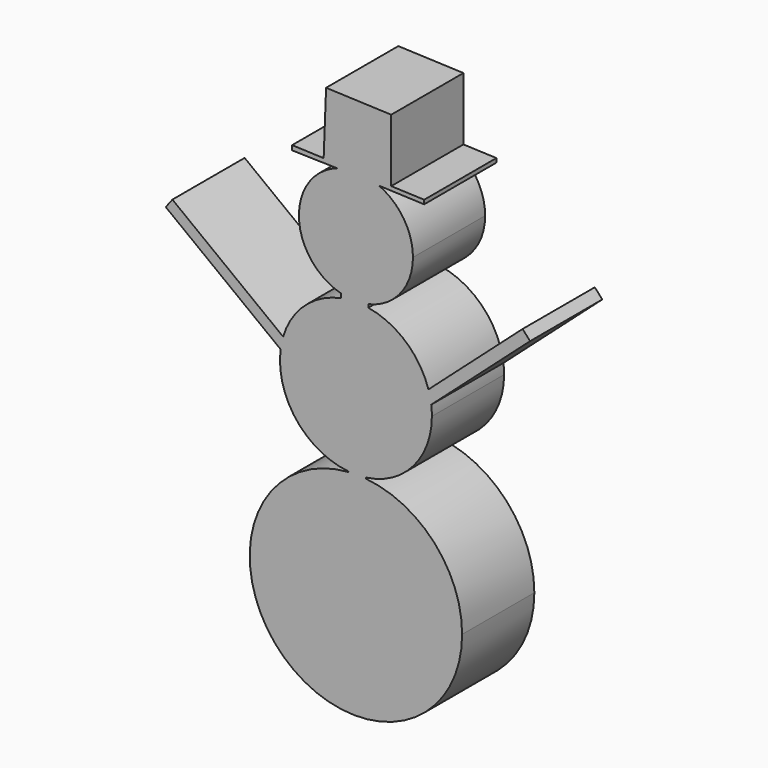
from build123d import *

# Parameters (mm, degrees)
F1_DEPTH = 25.4


with BuildPart() as f1:
    # F0 (on Front) → F1 (new body)
    with BuildSketch(Plane.XZ):
        with BuildLine():
            ThreePointArc((20.4049786892, 6.3504867092), (20.8678544717, 4.6070040701), (21.1820442154, 2.8306959584))
            Line((21.1820442154, 2.8306959584), (48.9944145362, 27.6060388008))
            Line((48.9944145362, 27.6060388008), (46.9024144113, 29.9544818699))
            Line((46.9024144113, 29.9544818699), (20.4049786892, 6.3504867092))
        make_face()
        with BuildLine():
            ThreePointArc((-21.1910162126, 2.7627284755), (-20.9013414742, 4.4526128656), (-20.4771295901, 6.1138368071))
            Line((-20.4771295901, 6.1138368071), (-51.6320727766, 29.9544818699))
            Line((-51.6320727766, 29.9544818699), (-53.5130294584, 27.4964486077))
            Line((-53.5130294584, 27.4964486077), (-21.1910162126, 2.7627284755))
        make_face()
        with BuildLine():
            ThreePointArc((-4.2163397384, 20.950282002), (-0.3644683786, 21.3672412715), (3.4993825041, 21.0818917283))
            Line((3.4993825041, 21.0818917283), (3.4993825041, 21.9821314982))
            ThreePointArc((3.4993825041, 21.9821314982), (-0.3693197629, 21.6001123859), (-4.2163397384, 22.1597847365))
            Line((-4.2163397384, 22.1597847365), (-4.2163397384, 20.950282002))
        make_face()
        with BuildLine():
            ThreePointArc((-2.1167327844, -21.4303093495), (-1.3655209552, -21.3864617153), (-0.6134432394, -21.3615431124))
            ThreePointArc((-0.6134432394, -21.3615431124), (-1.3659366362, -21.3266512575), (-2.1167327844, -21.2652599108))
            Line((-2.1167327844, -21.2652599108), (-2.1167327844, -21.4303093495))
        make_face()
        with BuildLine():
            Line((2.8663278709, -21.4930317571), (2.8663278709, -21.1772519768))
            ThreePointArc((2.8663278709, -21.1772519768), (1.7423238937, -21.2992052481), (0.6134432394, -21.3615431124))
            ThreePointArc((0.6134432394, -21.3615431124), (1.7411272386, -21.4060128256), (2.8663278709, -21.4930317571))
        make_face()
        with BuildLine():
            ThreePointArc((-0.6134432394, -21.3615431124), (-0.3771394581, -21.3576259208), (-0.140812087, -21.3555777168))
            Line((-0.140812087, -21.3555777168), (-2.1167327844, -21.2652599108))
            ThreePointArc((-2.1167327844, -21.2652599108), (-1.3659366362, -21.3266512575), (-0.6134432394, -21.3615431124))
        make_face()
        with BuildLine():
            ThreePointArc((29.8826873875, -51.2379333377), (22.1204496475, -31.1466239505), (2.8663278709, -21.4930317571))
            Line((2.8663278709, -21.4930317571), (0.1679222298, -21.3696897235))
            ThreePointArc((0.1679222298, -21.3696897235), (-0.2227977431, -21.36918805), (-0.6134432394, -21.3615431124))
            ThreePointArc((-0.6134432394, -21.3615431124), (-1.3655209552, -21.3864617153), (-2.1167327844, -21.4303093495))
            ThreePointArc((-2.1167327844, -21.4303093495), (-20.3681287975, -73.1037590662), (29.8826873875, -51.2379333377))
        make_face()
        with BuildLine():
            ThreePointArc((2.8663278709, -21.4930317571), (1.7411272386, -21.4060128256), (0.6134432394, -21.3615431124))
            ThreePointArc((0.6134432394, -21.3615431124), (0.3907039685, -21.3667776504), (0.1679222298, -21.3696897235))
            Line((0.1679222298, -21.3696897235), (2.8663278709, -21.4930317571))
        make_face()
        with BuildLine():
            ThreePointArc((3.0698445182, 53.3880616036), (4.8243232871, 52.9419979131), (6.517384434, 52.3011293468))
            Line((6.517384434, 52.3011293468), (19.2037780342, 51.8069900572))
            Line((19.2037780342, 51.8069900572), (19.2037780342, 52.9486572193))
            Line((19.2037780342, 52.9486572193), (9.9330925167, 53.3097535324))
            Line((9.9330925167, 53.3097535324), (3.0771956701, 53.5767930161))
            Line((3.0771956701, 53.5767930161), (3.0698445182, 53.3880616036))
        make_face()
        with BuildLine():
            Line((-17.9446875836, 53.0898608267), (-5.3075071271, 52.7811871321))
            ThreePointArc((-5.3075071271, 52.7811871321), (-3.6405354999, 53.2659991259), (-1.9309409864, 53.567866108))
            Line((-1.9309409864, 53.567866108), (-1.9230073291, 53.7715526015))
            Line((-1.9230073291, 53.7715526015), (-9.0798883723, 54.0503155207))
            Line((-9.0798883723, 54.0503155207), (-17.9446875836, 54.395602426))
            Line((-17.9446875836, 54.395602426), (-17.9446875836, 53.0898608267))
        make_face()
        Polygon((-1.9230073291, 53.7715526015), (0.6244581833, 53.6723279646), (3.0771956701, 53.5767930161), (9.9330925167, 53.3097535324), (9.9330925167, 70.9950544663), (-8.3920834524, 71.7088262222), (-9.0798883723, 54.0503155207), align=None)
        with BuildLine():
            ThreePointArc((2.8663278709, -21.1772519768), (16.0926421862, -14.0612483165), (21.3703494766, 0))
            ThreePointArc((21.3703494766, 0), (21.323221195, 1.4184761612), (21.1820442154, 2.8306959584))
            ThreePointArc((21.1820442154, 2.8306959584), (20.8678544717, 4.6070040701), (20.4049786892, 6.3504867092))
            ThreePointArc((20.4049786892, 6.3504867092), (14.0395225871, 16.1115996189), (3.4993825041, 21.0818917283))
            ThreePointArc((3.4993825041, 21.0818917283), (-0.3644683786, 21.3672412715), (-4.2163397384, 20.950282002))
            ThreePointArc((-4.2163397384, 20.950282002), (-14.4038843155, 15.7867017891), (-20.4771295901, 6.1138368071))
            ThreePointArc((-20.4771295901, 6.1138368071), (-20.9013414742, 4.4526128656), (-21.1910162126, 2.7627284755))
            ThreePointArc((-21.1910162126, 2.7627284755), (-16.7376476035, -13.2869480865), (-2.1167327844, -21.2652599108))
            Line((-2.1167327844, -21.2652599108), (-0.140812087, -21.3555777168))
            ThreePointArc((-0.140812087, -21.3555777168), (0.2363343988, -21.3561805184), (0.6134432394, -21.3615431124))
            ThreePointArc((0.6134432394, -21.3615431124), (1.7423238937, -21.2992052481), (2.8663278709, -21.1772519768))
        make_face()
        with BuildLine():
            Line((-1.9230073291, 53.7715526015), (-1.9309409864, 53.567866108))
            ThreePointArc((-1.9309409864, 53.567866108), (-0.6553261773, 53.6710958815), (0.6244581833, 53.6723279646))
            Line((0.6244581833, 53.6723279646), (-1.9230073291, 53.7715526015))
        make_face()
        with BuildLine():
            ThreePointArc((0.6244581833, 53.6723279646), (1.8526116575, 53.5771667843), (3.0698445182, 53.3880616036))
            Line((3.0698445182, 53.3880616036), (3.0771956701, 53.5767930161))
            Line((3.0771956701, 53.5767930161), (0.6244581833, 53.6723279646))
        make_face()
        with BuildLine():
            ThreePointArc((-4.2163397384, 22.1597847365), (-0.3693197629, 21.6001123859), (3.4993825041, 21.9821314982))
            ThreePointArc((3.4993825041, 21.9821314982), (12.5212843835, 27.6083546784), (16.0443118023, 37.6401729882))
            ThreePointArc((16.0443118023, 37.6401729882), (13.4533804155, 46.3823979114), (6.517384434, 52.3011293468))
            ThreePointArc((6.517384434, 52.3011293468), (4.8243232871, 52.9419979131), (3.0698445182, 53.3880616036))
            ThreePointArc((3.0698445182, 53.3880616036), (1.8526116575, 53.5771667843), (0.6244581833, 53.6723279646))
            ThreePointArc((0.6244581833, 53.6723279646), (-0.6553261773, 53.6710958815), (-1.9309409864, 53.567866108))
            ThreePointArc((-1.9309409864, 53.567866108), (-3.6405354999, 53.2659991259), (-5.3075071271, 52.7811871321))
            ThreePointArc((-5.3075071271, 52.7811871321), (-16.0341350234, 37.0688103505), (-4.2163397384, 22.1597847365))
        make_face()
    extrude(amount=F1_DEPTH)


solid = f1.part
